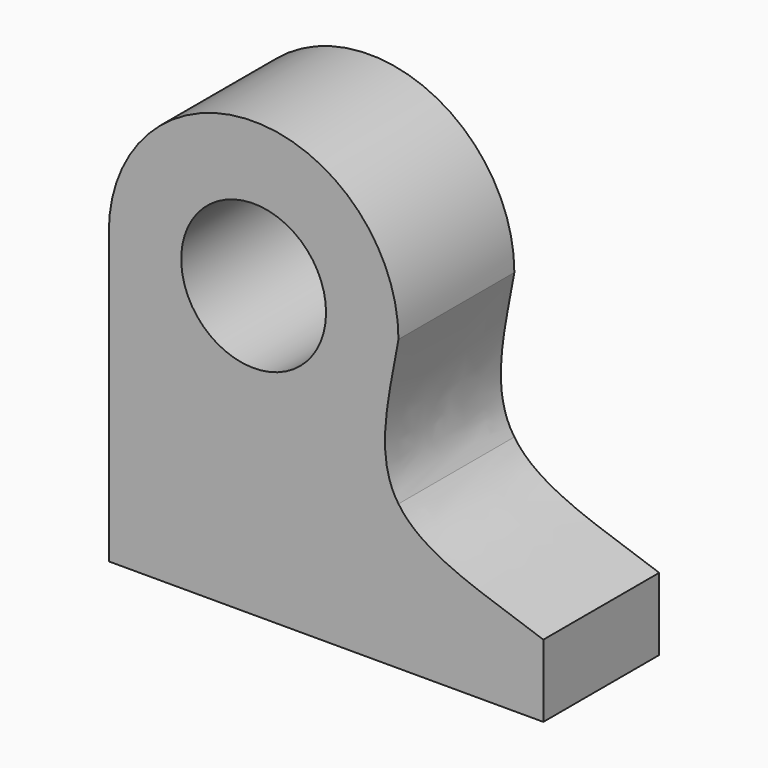
from build123d import *

# Parameters (mm, degrees)
F0_W      = 63.5
F0_H      = 6.35
F1_DEPTH  = 38.1
F2_W      = 25.4
F2_H      = 38.1
F3_DEPTH  = 12.7
F5_DEPTH  = 25.4
F6_R      = 6.35
F7_DEPTH  = 25.4
F9_DEPTH  = 25.4
F11_DEPTH = 12.7
F12_R     = 3.4395833333
F13_DEPTH = 25.4
F14_DEPTH = 25.4


with BuildPart() as f1:
    # F0 (on Front) → F1 (new body)
    with BuildSketch(Plane.XZ):
        with Locations((-14.0939018427, 3.175)):
            Rectangle(F0_W, F0_H)
    extrude(amount=F1_DEPTH)

    # F2 (on face) → F3 (join)
    with BuildSketch(Plane(origin=(0, 0, 0), x_dir=(-1, 0, 0), z_dir=(0, 1, 0))):
        with Locations((33.1439018427, 25.4)):
            Rectangle(F2_W, F2_H)
    extrude(amount=-F3_DEPTH)

    # F4 (on face) → F5 (cut)
    with BuildSketch(Plane.XZ.offset(12.7)):
        with BuildLine():
            ThreePointArc((-45.8439018427, 25.4), (-33.1439018427, 38.1), (-20.4439018427, 25.4))
            Line((-20.4439018427, 25.4), (-20.4439018427, 44.45))
            Line((-20.4439018427, 44.45), (-45.8439018427, 44.45))
            Line((-45.8439018427, 44.45), (-45.8439018427, 25.4))
        make_face()
    extrude(amount=-F5_DEPTH, mode=Mode.SUBTRACT)

    # F6 (on face) → F7 (cut)
    with BuildSketch(Plane.XZ.offset(12.7)):
        with Locations((-33.1439018427, 25.4)):
            Circle(F6_R)
    extrude(amount=-F7_DEPTH, mode=Mode.SUBTRACT)

    # F8 (on face) → F9 (cut)
    with BuildSketch(Plane.XZ.offset(12.7)):
        with BuildLine():
            add(Edge.make_bspline(
                [(-20.4439018427, 25.4), (-21.2112794526, 20.9739528082), (-22.6711814471, 15.8700383759), (-20.4439018427, 12.7)],
                knots=[0, 0, 0, 0, 0.4860571438, 0.4860571438, 0.4860571438, 0.4860571438], degree=3))
            Line((-20.4439018427, 12.7), (-20.4439018427, 25.4))
        make_face()
    extrude(amount=-F9_DEPTH, mode=Mode.SUBTRACT)

    # F10 (on face) → F11 (join)
    with BuildSketch(Plane.XZ.offset(12.7)):
        with BuildLine():
            add(Edge.make_bspline(
                [(-20.4439018427, 12.7), (-18.2158628234, 9.3571333053), (-12.2381824129, 8.0261796099), (-7.7439018427, 6.35)],
                knots=[0.4860571438, 0.4860571438, 0.4860571438, 0.4860571438, 1, 1, 1, 1], degree=3))
            Line((-20.4439018427, 12.7), (-20.4439018427, 6.35))
            Line((-20.4439018427, 6.35), (-7.7439018427, 6.35))
        make_face()
    extrude(amount=-F11_DEPTH)

    # F12 (on face) → F13 (cut)
    with BuildSketch(Plane.XY.offset(6.35)):
        with Locations((8.1310981573, -9.2604166667)):
            Circle(F12_R)
    extrude(amount=-F13_DEPTH, mode=Mode.SUBTRACT)

    # F14 (cut): a face of the model
    f14_faces = [f1.faces().sort_by_distance(p)[0] for p in [
        (-11.2918846227, -22.4788355031, 6.35),
    ]]
    extrude(f14_faces, amount=-F14_DEPTH, mode=Mode.SUBTRACT)


solid = f1.part
